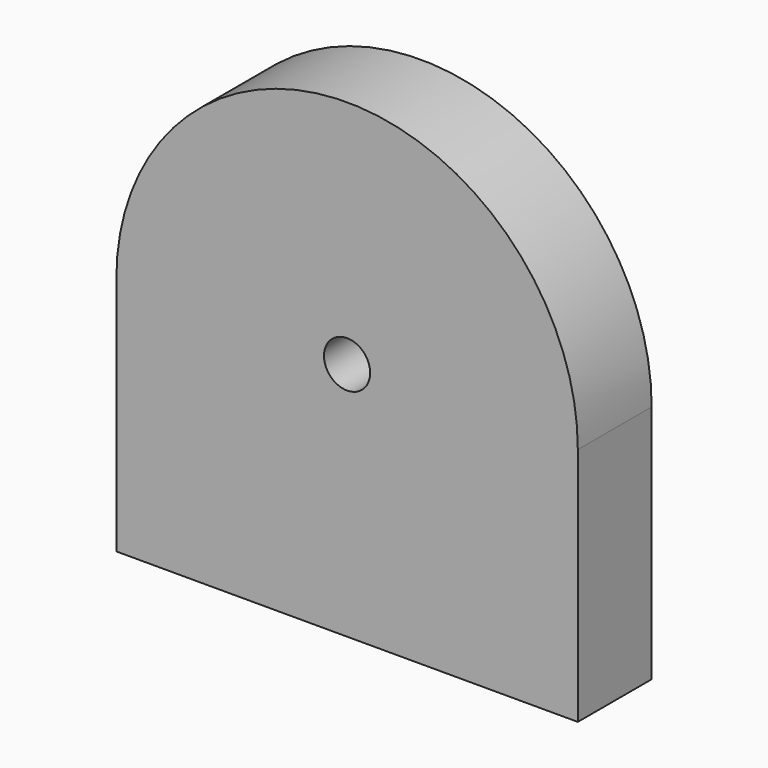
from build123d import *

# Parameters (mm, degrees)
F1_DEPTH = 10


with BuildPart() as f1:
    # F0 (on Front) → F1 (new body)
    with BuildSketch(Plane.XZ):
        with BuildLine():
            Line((25, -25.975256), (25, 0))
            ThreePointArc((25, 0), (0, -25), (-25, 0))
            Line((-25, 0), (-25, -25.975256))
            Line((-25, -25.975256), (25, -25.975256))
        make_face()
        with BuildLine():
            Line((2.5, 0), (25, 0))
            ThreePointArc((25, 0), (0, 25), (-25, 0))
            Line((-25, 0), (-2.5, 0))
            ThreePointArc((-2.5, 0), (0, 2.5), (2.5, 0))
        make_face()
        with BuildLine():
            ThreePointArc((-25, 0), (0, -25), (25, 0))
            Line((25, 0), (2.5, 0))
            ThreePointArc((2.5, 0), (0, -2.5), (-2.5, 0))
            Line((-2.5, 0), (-25, 0))
        make_face()
    extrude(amount=F1_DEPTH)


solid = f1.part
